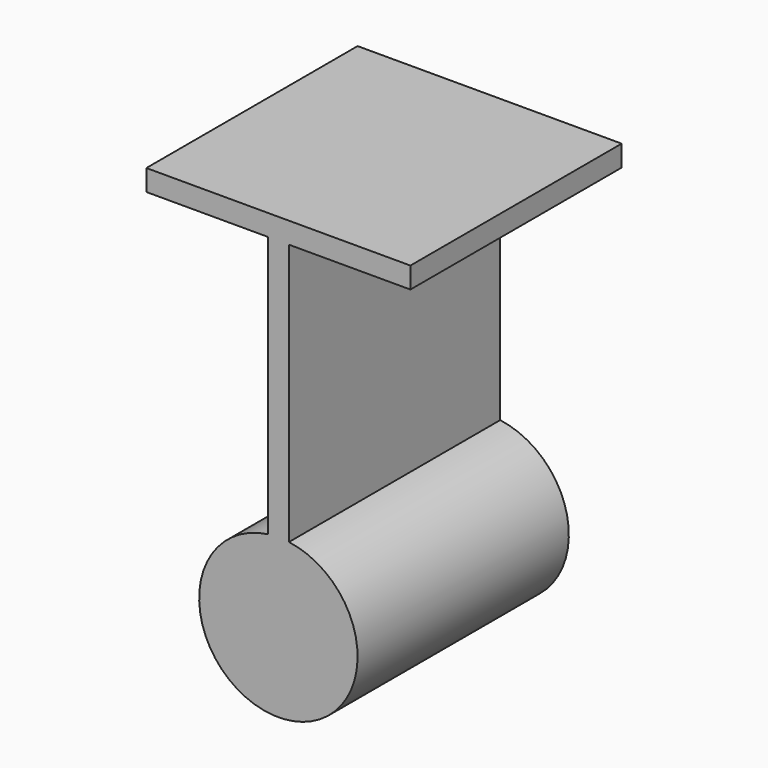
from build123d import *

# Parameters (mm, degrees)
F0_W     = 4
F0_H     = 50
F1_DEPTH = 25
F2_W     = 50
F2_H     = 4
F3_DEPTH = 25
F4_R     = 15
F5_DEPTH = 25


with BuildPart() as f1:
    # F0 (on Front) → F1 (new body, symmetric)
    with BuildSketch(Plane.XZ):
        with Locations((0, -25)):
            Rectangle(F0_W, F0_H)
    extrude(amount=F1_DEPTH, both=True)

    # F2 (on Front) → F3 (join, symmetric)
    with BuildSketch(Plane.XZ):
        with Locations((0, 2)):
            Rectangle(F2_W, F2_H)
    extrude(amount=F3_DEPTH, both=True)

    # F4 (on Front) → F5 (join, symmetric)
    with BuildSketch(Plane.XZ):
        with Locations((0, -64.434606)):
            Circle(F4_R)
    extrude(amount=F5_DEPTH, both=True)


solid = f1.part
